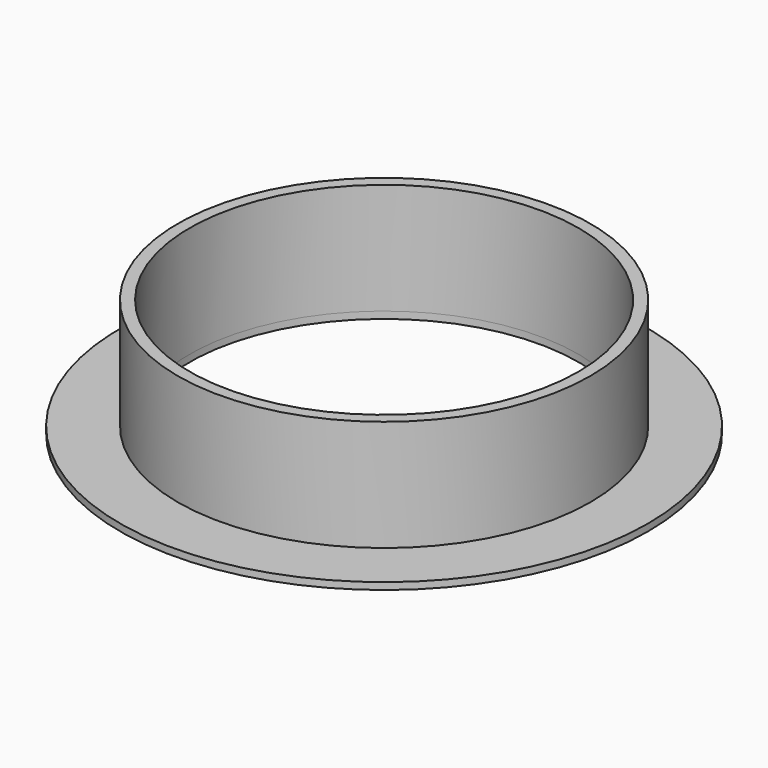
from build123d import *

# Parameters (mm, degrees)
F0_R     = 14.85
F0_R_2   = 14
F1_DEPTH = 8
F2_R     = 19
F2_R_2   = 14
F3_DEPTH = 0.5


with BuildPart() as f1:
    # F0 (on Top) → F1 (new body)
    with BuildSketch(Plane.XY):
        Circle(F0_R)
        Circle(F0_R_2, mode=Mode.SUBTRACT)
    extrude(amount=F1_DEPTH)

    # F2 (on Top) → F3 (join)
    with BuildSketch(Plane.XY):
        Circle(F2_R)
        Circle(F2_R_2, mode=Mode.SUBTRACT)
    extrude(amount=-F3_DEPTH)


solid = f1.part
